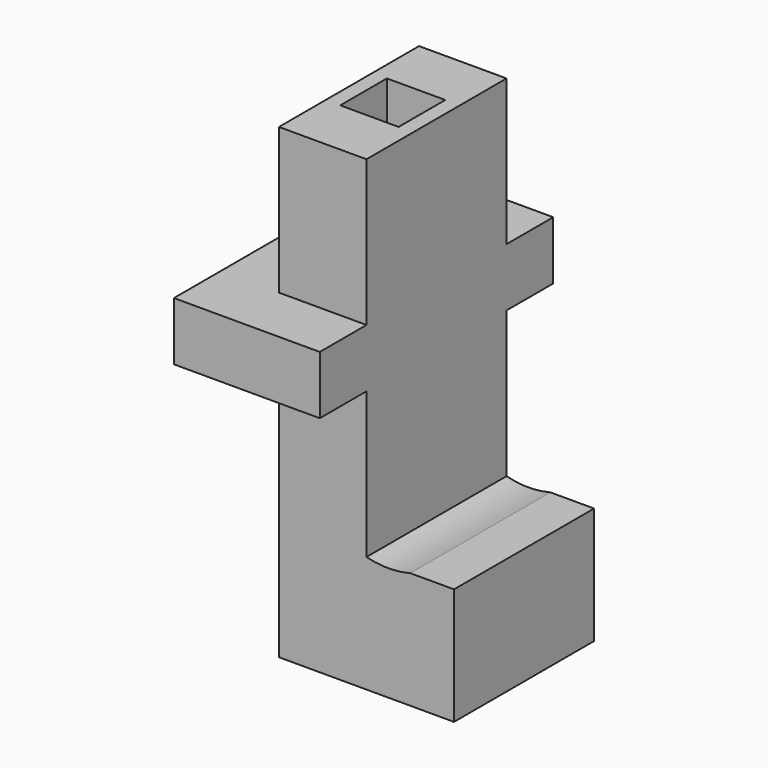
from build123d import *

# Parameters (mm, degrees)
F0_W      = 38.1
F0_H      = 76.2
F1_DEPTH  = 177.8
F2_W      = 76.2
F2_H      = 25.4
F3_DEPTH  = 25.4
F5_DEPTH  = 25.4
F7_DEPTH  = 25.4
F8_W      = 38.1
F8_H      = 76.2
F9_DEPTH  = 25.4
F10_W     = 25.4
F10_H     = 25.4
F11_DEPTH = 228.6
F12_W     = 76.2
F12_H     = 50.8
F13_DEPTH = 38.1
F15_DEPTH = 228.6


with BuildPart() as f1:
    # F0 (on Top) → F1 (new body)
    with BuildSketch(Plane.XY):
        Rectangle(F0_W, F0_H)
    extrude(amount=F1_DEPTH)

    # F2 (on face) → F3 (join)
    with BuildSketch(Plane(origin=(-19.05, 0, 0), x_dir=(0, -1, 0), z_dir=(-1, 0, 0))):
        with Locations((0, 127)):
            Rectangle(F2_W, F2_H)
    extrude(amount=F3_DEPTH)

    # F4 (on face) → F5 (join)
    with BuildSketch(Plane.XZ.offset(38.1)):
        Polygon((-44.45, 139.7), (-44.45, 114.3), (-19.05, 114.3), (19.05, 114.3), (19.05, 139.7), (-19.05, 139.7), align=None)
    extrude(amount=F5_DEPTH)

    # F6 (on face) → F7 (join)
    with BuildSketch(Plane(origin=(0, 38.1, 0), x_dir=(-1, 0, 0), z_dir=(0, 1, 0))):
        Polygon((44.45, 114.3), (44.45, 139.7), (19.05, 139.7), (-19.05, 139.7), (-19.05, 114.3), (19.05, 114.3), align=None)
    extrude(amount=F7_DEPTH)

    # F8 (on face) → F9 (join)
    with BuildSketch(Plane.XY.offset(177.8)):
        Rectangle(F8_W, F8_H)
    extrude(amount=F9_DEPTH)

    # F10 (on face) → F11 (cut)
    with BuildSketch(Plane.XY.offset(203.2)):
        Rectangle(F10_W, F10_H)
    extrude(amount=-F11_DEPTH, mode=Mode.SUBTRACT)

    # F12 (on face) → F13 (join)
    with BuildSketch(Plane.YZ.offset(19.05)):
        with Locations((0, 25.4)):
            Rectangle(F12_W, F12_H)
    extrude(amount=F13_DEPTH)

    # F14 (on face) → F15 (cut)
    with BuildSketch(Plane.XZ.offset(38.1)):
        with BuildLine():
            Line((38.1, 50.8), (19.05, 50.8))
            ThreePointArc((19.05, 50.8), (28.575, 49.590166), (38.1, 50.8))
        make_face()
    extrude(amount=-F15_DEPTH, mode=Mode.SUBTRACT)


solid = f1.part
